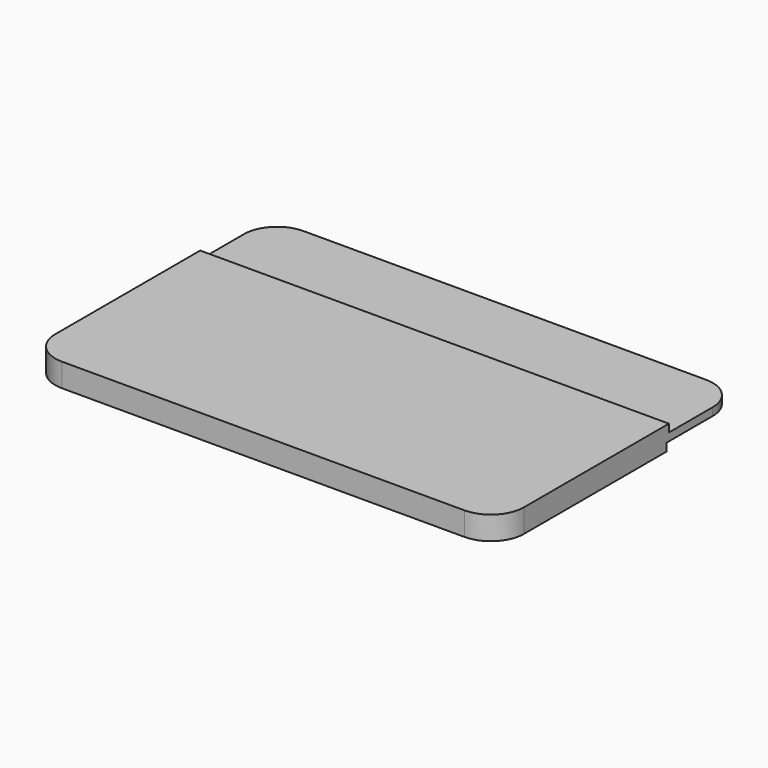
from build123d import *

# Parameters (mm, degrees)
F1_DEPTH = 1.5
F3_DEPTH = 1.5
F5_DEPTH = 1.5


with BuildPart() as f1:
    # F0 (on Top) → F1 (new body)
    with BuildSketch(Plane.XY):
        with BuildLine():
            Line((-38.65, -29), (38.65, -29))
            ThreePointArc((38.65, -29), (43.140128, -27.140128), (45, -22.65))
            Line((45, -22.65), (45, 22.65))
            ThreePointArc((45, 22.65), (43.140128, 27.140128), (38.65, 29))
            Line((38.65, 29), (-38.65, 29))
            ThreePointArc((-38.65, 29), (-43.140128, 27.140128), (-45, 22.65))
            Line((-45, 22.65), (-45, -22.65))
            ThreePointArc((-45, -22.65), (-43.140128, -27.140128), (-38.65, -29))
        make_face()
    extrude(amount=F1_DEPTH)

    # F2 (on face) → F3 (join)
    with BuildSketch(Plane.XY.offset(1.5)):
        with BuildLine():
            ThreePointArc((38.65, -29), (43.140128, -27.140128), (45, -22.65))
            Line((45, -22.65), (45, 12.129959))
            Line((45, 12.129959), (-45, 12.129959))
            Line((-45, 12.129959), (-45, -22.65))
            ThreePointArc((-45, -22.65), (-43.140128, -27.140128), (-38.65, -29))
            Line((-38.65, -29), (38.65, -29))
        make_face()
    extrude(amount=F3_DEPTH)

    # F4 (on face) → F5 (join)
    with BuildSketch(Plane(origin=(0, 0, 0), x_dir=(1, 0, 0), z_dir=(0, 0, -1))):
        with BuildLine():
            ThreePointArc((-45, -12.129959), (-0.068582, -0.00037), (45, -11.609941))
            Line((45, -11.609941), (45, 22.65))
            ThreePointArc((45, 22.65), (43.140128, 27.140128), (38.65, 29))
            Line((38.65, 29), (-38.65, 29))
            ThreePointArc((-38.65, 29), (-43.140128, 27.140128), (-45, 22.65))
            Line((-45, 22.65), (-45, -12.129959))
        make_face()
    extrude(amount=F5_DEPTH)


solid = f1.part
